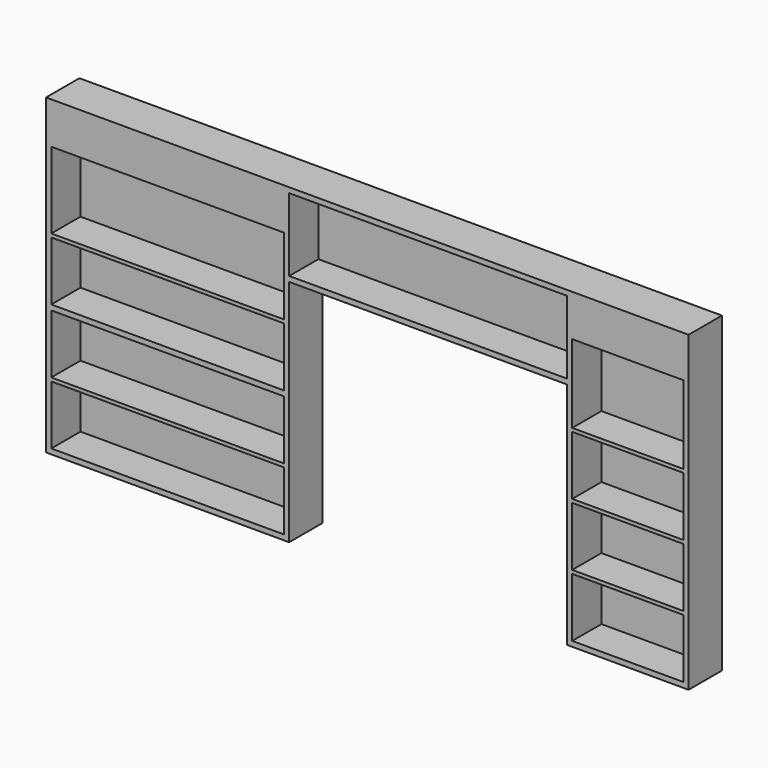
from build123d import *

# Parameters (mm, degrees)
F0_W      = 4699
F0_H      = 2286
F1_DEPTH  = 304.8
F2_W      = 2032
F2_H      = 1676.4
F3_DEPTH  = 304.8
F4_W      = 812.8
F4_H      = 431.8
F5_DEPTH  = 266.7
F6_W      = 812.8
F6_H      = 431.8
F7_DEPTH  = 266.7
F8_W      = 1701.8
F8_H      = 431.8
F9_DEPTH  = 266.7
F10_W     = 812.8
F10_H     = 431.8
F11_DEPTH = 266.7
F12_W     = 1701.8
F12_H     = 431.8
F13_DEPTH = 266.7
F14_W     = 1701.8
F14_H     = 431.8
F15_DEPTH = 266.7
F16_W     = 812.8
F16_H     = 571.5
F17_DEPTH = 266.7
F18_W     = 2032
F18_H     = 533.4
F19_DEPTH = 266.7
F20_W     = 1701.8
F20_H     = 558.8
F21_DEPTH = 266.7


with BuildPart() as f1:
    # F0 (on Front) → F1 (new body)
    with BuildSketch(Plane.XZ):
        with Locations((2349.5, 1143)):
            Rectangle(F0_W, F0_H)
    extrude(amount=F1_DEPTH)

    # F2 (on Front) → F3 (cut)
    with BuildSketch(Plane.XZ):
        with Locations((2794, 838.2)):
            Rectangle(F2_W, F2_H)
    extrude(amount=F3_DEPTH, mode=Mode.SUBTRACT)

    # F4 (on face) → F5 (cut)
    with BuildSketch(Plane.XZ.offset(304.8)):
        with Locations((4254.5, 254)):
            Rectangle(F4_W, F4_H)
    extrude(amount=-F5_DEPTH, mode=Mode.SUBTRACT)

    # F6 (on face) → F7 (cut)
    with BuildSketch(Plane.XZ.offset(304.8)):
        with Locations((4254.5, 711.2)):
            Rectangle(F6_W, F6_H)
    extrude(amount=-F7_DEPTH, mode=Mode.SUBTRACT)

    # F8 (on face) → F9 (cut)
    with BuildSketch(Plane.XZ.offset(304.8)):
        with Locations((889, 254)):
            Rectangle(F8_W, F8_H)
    extrude(amount=-F9_DEPTH, mode=Mode.SUBTRACT)

    # F10 (on face) → F11 (cut)
    with BuildSketch(Plane.XZ.offset(304.8)):
        with Locations((4254.5, 1168.4)):
            Rectangle(F10_W, F10_H)
    extrude(amount=-F11_DEPTH, mode=Mode.SUBTRACT)

    # F12 (on face) → F13 (cut)
    with BuildSketch(Plane.XZ.offset(304.8)):
        with Locations((889, 711.2)):
            Rectangle(F12_W, F12_H)
    extrude(amount=-F13_DEPTH, mode=Mode.SUBTRACT)

    # F14 (on face) → F15 (cut)
    with BuildSketch(Plane.XZ.offset(304.8)):
        with Locations((889, 1181.1)):
            Rectangle(F14_W, F14_H)
    extrude(amount=-F15_DEPTH, mode=Mode.SUBTRACT)

    # F16 (on face) → F17 (cut)
    with BuildSketch(Plane.XZ.offset(304.8)):
        with Locations((4254.5, 1695.45)):
            Rectangle(F16_W, F16_H)
    extrude(amount=-F17_DEPTH, mode=Mode.SUBTRACT)

    # F18 (on face) → F19 (cut)
    with BuildSketch(Plane.XZ.offset(304.8)):
        with Locations((2794, 1981.2)):
            Rectangle(F18_W, F18_H)
    extrude(amount=-F19_DEPTH, mode=Mode.SUBTRACT)

    # F20 (on face) → F21 (cut)
    with BuildSketch(Plane.XZ.offset(304.8)):
        with Locations((889, 1701.8)):
            Rectangle(F20_W, F20_H)
    extrude(amount=-F21_DEPTH, mode=Mode.SUBTRACT)


solid = f1.part
